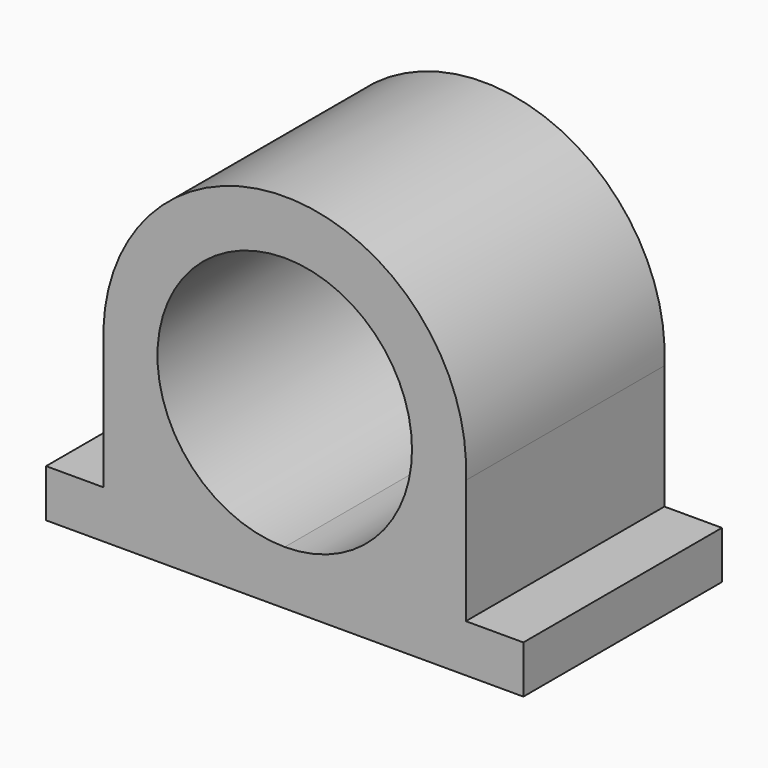
from build123d import *

# Parameters (mm, degrees)
F1_DEPTH = 78


with BuildPart() as f1:
    # F0 (on Front) → F1 (new body)
    with BuildSketch(Plane.XZ):
        with BuildLine():
            Line((0, 15), (0, 0))
            Line((0, 0), (150, 0))
            Line((150, 0), (150, 15))
            Line((150, 15), (131.919114, 15))
            Line((131.919114, 15), (131.919114, 53.964467))
            ThreePointArc((131.919114, 53.964467), (77.582593, 113.941463), (18.039792, 59.129489))
            Line((18.039792, 59.129489), (18.039792, 54.870511))
            Line((18.039792, 54.870511), (18.039792, 15))
            Line((18.039792, 15), (0, 15))
        make_face()
        with BuildLine():
            ThreePointArc((115, 57), (103.284271, 28.715729), (75, 17))
            ThreePointArc((75, 17), (35, 57), (75, 97))
            ThreePointArc((75, 97), (103.284271, 85.284271), (115, 57))
        make_face(mode=Mode.SUBTRACT)
    extrude(amount=F1_DEPTH)


solid = f1.part
